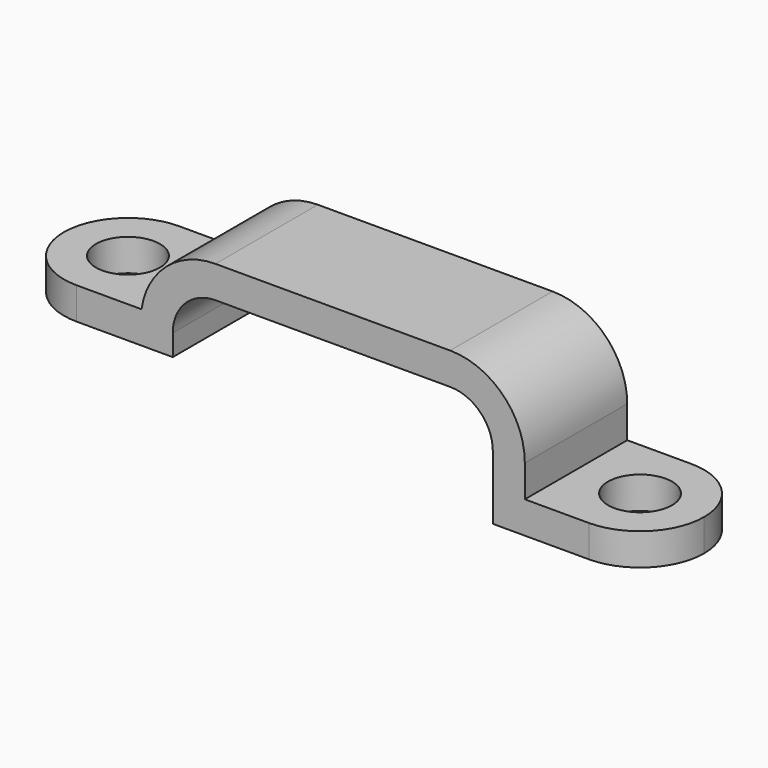
from build123d import *

# Parameters (mm, degrees)
F1_DEPTH = 6
F2_R     = 1.5
F3_DEPTH = 1.5
F4_R     = 1.5
F4_W     = 1.5
F4_H     = 6
F5_DEPTH = 1.5


with BuildPart() as f1:
    # F0 (on Front) → F1 (new body)
    with BuildSketch(Plane.XZ):
        with BuildLine():
            Line((15, 3), (15, 0))
            Line((15, 0), (16.5, 0))
            Line((16.5, 0), (16.5, 3))
            ThreePointArc((16.5, 3), (15.474874, 5.474874), (13, 6.5))
            Line((13, 6.5), (2, 6.5))
            ThreePointArc((2, 6.5), (-0.474874, 5.474874), (-1.5, 3))
            Line((-1.5, 3), (-1.5, 2))
            Line((-1.5, 2), (0, 2))
            Line((0, 2), (0, 3))
            ThreePointArc((0, 3), (0.585786, 4.414214), (2, 5))
            Line((2, 5), (13, 5))
            ThreePointArc((13, 5), (14.414214, 4.414214), (15, 3))
        make_face()
    extrude(amount=F1_DEPTH)

    # F2 (on Top) → F3 (join)
    with BuildSketch(Plane.XY):
        with BuildLine():
            Line((16.5, 0), (16.5, -6))
            Line((16.5, -6), (19.5, -6))
            ThreePointArc((19.5, -6), (21.62132, -5.12132), (22.5, -3))
            ThreePointArc((22.5, -3), (21.62132, -0.87868), (19.5, 0))
            Line((19.5, 0), (16.5, 0))
        make_face()
        with Locations((19.5, -3)):
            Circle(F2_R, mode=Mode.SUBTRACT)
    extrude(amount=F3_DEPTH)

    # F4 (on face) → F5 (join)
    with BuildSketch(Plane(origin=(0, 0, 2), x_dir=(1, 0, 0), z_dir=(0, 0, -1))):
        with BuildLine():
            Line((-1.5, 6), (-4.5, 6))
            ThreePointArc((-4.5, 6), (-6.62132, 5.12132), (-7.5, 3))
            ThreePointArc((-7.5, 3), (-6.62132, 0.87868), (-4.5, 0))
            Line((-4.5, 0), (-1.5, 0))
            Line((-1.5, 0), (-1.5, 6))
        make_face()
        with Locations((-4.5, 3)):
            Circle(F4_R, mode=Mode.SUBTRACT)
        with Locations((-0.75, 3)):
            Rectangle(F4_W, F4_H)
    extrude(amount=-F5_DEPTH)


solid = f1.part
